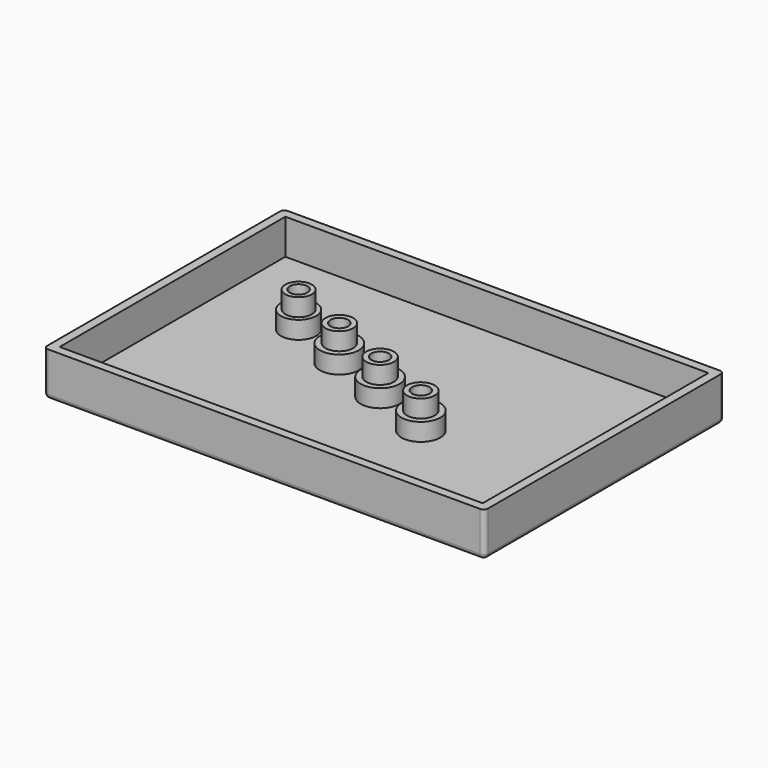
from build123d import *

# Parameters (mm, degrees)
F0_W     = 127
F0_H     = 86.36
F1_DEPTH = 12.7
F2_T     = -2.54
F3_R     = 1.27
F4_R     = 3.81
F4_R_2   = 2.54
F4_R_3   = 3.987123
F5_DEPTH = 10.16
F4_R_4   = 5.08
F4_R_5   = 5.599952
F6_DEPTH = 5.08
F7_DEPTH = 10.16
F8_DEPTH = 5.08


with BuildPart() as f1:
    # F0 (on Top) → F1 (new body)
    with BuildSketch(Plane.XY):
        Rectangle(F0_W, F0_H)
    extrude(amount=F1_DEPTH)

    # F2
    f2_openings = [f1.faces().sort_by_distance(p)[0] for p in [
        (0, 0, 12.7),
    ]]
    offset(amount=F2_T, openings=f2_openings)

    # F3
    f3_edges = [f1.edges().sort_by_distance(p)[0] for p in [
        (-63.5, 43.18, 6.35),
        (-63.5, 0, 0),
        (0, -43.18, 0),
        (0, 43.18, 0),
        (63.5, 0, 0),
        (63.5, 43.18, 6.35),
        (63.5, -43.18, 6.35),
        (-63.5, -43.18, 6.35),
    ]]
    fillet(f3_edges, radius=F3_R)

    # F4 (on face) → F5 (join)
    with BuildSketch(Plane.XY.offset(2.54)):
        with Locations((-36.485116, 14.837309)):
            Circle(F4_R)
        with Locations((-36.485116, 14.837309)):
            Circle(F4_R_2, mode=Mode.SUBTRACT)
        with Locations((-1.668755, 0.678628)):
            Circle(F4_R_3)
        with Locations((-1.668755, 0.678628)):
            Circle(F4_R_2, mode=Mode.SUBTRACT)
    extrude(amount=F5_DEPTH)

    # F4 (on face) → F6 (join)
    with BuildSketch(Plane.XY.offset(2.54)):
        with Locations((-36.485116, 14.837309)):
            Circle(F4_R_4)
        with Locations((-36.485116, 14.837309)):
            Circle(F4_R, mode=Mode.SUBTRACT)
        with Locations((-1.668755, 0.678628)):
            Circle(F4_R_5)
        with Locations((-1.668755, 0.678628)):
            Circle(F4_R_3, mode=Mode.SUBTRACT)
    extrude(amount=F6_DEPTH)

    # F4 (on face) → F7 (join)
    with BuildSketch(Plane.XY.offset(2.54)):
        with Locations((-19.076936, 7.757969)):
            Circle(F4_R_3)
        with Locations((-19.076936, 7.757969)):
            Circle(F4_R_2, mode=Mode.SUBTRACT)
        with Locations((15.739425, -6.400712)):
            Circle(F4_R_3)
        with Locations((15.739425, -6.400712)):
            Circle(F4_R_2, mode=Mode.SUBTRACT)
    extrude(amount=F7_DEPTH)

    # F4 (on face) → F8 (join)
    with BuildSketch(Plane.XY.offset(2.54)):
        with Locations((-19.076936, 7.757969)):
            Circle(F4_R_5)
        with Locations((-19.076936, 7.757969)):
            Circle(F4_R_3, mode=Mode.SUBTRACT)
        with Locations((15.739425, -6.400712)):
            Circle(F4_R_5)
        with Locations((15.739425, -6.400712)):
            Circle(F4_R_3, mode=Mode.SUBTRACT)
    extrude(amount=F8_DEPTH)


solid = f1.part
